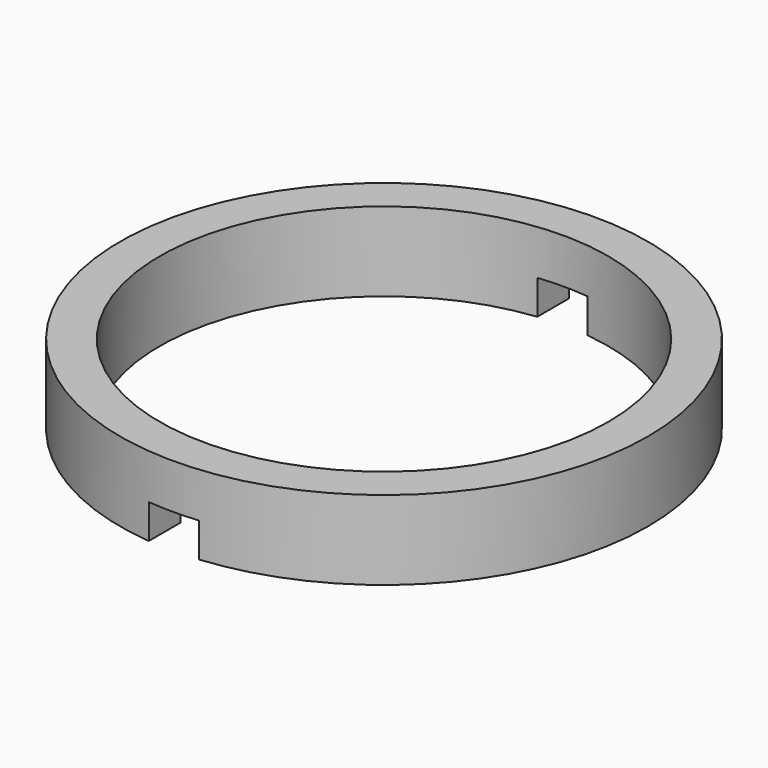
from build123d import *

# Parameters (mm, degrees)
F0_R     = 10
F0_R_2   = 8.5
F1_DEPTH = 3
F3_DEPTH = 1.3


with BuildPart() as f1:
    # F0 (on Top) → F1 (new body)
    with BuildSketch(Plane.XY):
        Circle(F0_R)
        Circle(F0_R_2, mode=Mode.SUBTRACT)
    extrude(amount=F1_DEPTH)

    # F2 (on face) → F3 (cut)
    with BuildSketch(Plane(origin=(0, 0, 0), x_dir=(1, 0, 0), z_dir=(0, 0, -1))):
        with BuildLine():
            ThreePointArc((0.95, 9.954773), (0, 10), (-0.95, 9.954773))
            Line((-0.95, 9.954773), (-0.95, 8.446745))
            ThreePointArc((-0.95, 8.446745), (0, 8.5), (0.95, 8.446745))
            Line((0.95, 8.446745), (0.95, 9.954773))
        make_face()
        with BuildLine():
            ThreePointArc((-0.95, -9.954773), (0, -10), (0.95, -9.954773))
            Line((0.95, -9.954773), (0.95, -8.446745))
            ThreePointArc((0.95, -8.446745), (0, -8.5), (-0.95, -8.446745))
            Line((-0.95, -8.446745), (-0.95, -9.954773))
        make_face()
    extrude(amount=-F3_DEPTH, mode=Mode.SUBTRACT)


solid = f1.part
